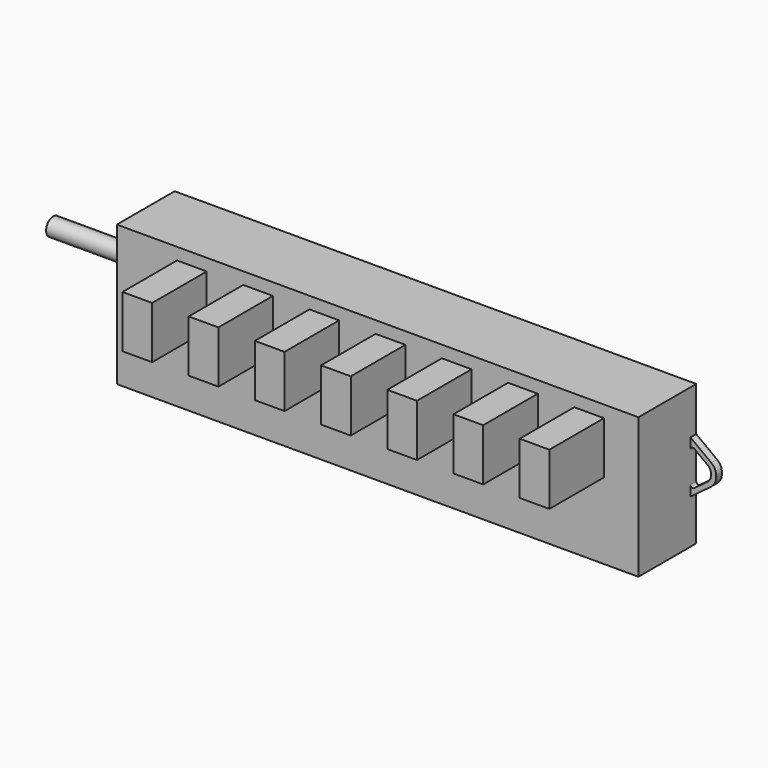
from build123d import *

# Parameters (mm, degrees)
F0_W      = 165.1
F0_H      = 44.45
F1_DEPTH  = 22.86
F2_R      = 5.08
F3_DEPTH  = 5.334
F4_R      = 2.794
F5_DEPTH  = 25.4
F6_W      = 9.398
F6_H      = 16.51
F7_DEPTH  = 21.59
F8_W      = 2.286
F8_H      = 16.51
F9_DEPTH  = 8.128
F11_DEPTH = 25.4
F12_R     = 1.27
F13_DEPTH = 6.35


with BuildPart() as f1:
    # F0 (on Front) → F1 (new body)
    with BuildSketch(Plane.XZ):
        with Locations((22.303157, 29.753123)):
            Rectangle(F0_W, F0_H)
    extrude(amount=F1_DEPTH)

    # F2 (on face) → F3 (join)
    with BuildSketch(Plane(origin=(-60.246843, 0, 0), x_dir=(0, -1, 0), z_dir=(-1, 0, 0))):
        with Locations((9.652, 36.103123)):
            Circle(F2_R)
    extrude(amount=F3_DEPTH)

    # F4 (on face) → F5 (join)
    with BuildSketch(Plane(origin=(-65.580843, 0, 0), x_dir=(0, -1, 0), z_dir=(-1, 0, 0))):
        with Locations((9.652, 36.103123)):
            Circle(F4_R)
    extrude(amount=F5_DEPTH)

    # F6 (on face) → F7 (join)
    with BuildSketch(Plane.XZ.offset(22.86)):
        with Locations((-36.497843, 39.913123)):
            Rectangle(F6_W, F6_H)
        with Locations((-15.542843, 39.913123)):
            Rectangle(F6_W, F6_H)
        with Locations((5.412157, 39.913123)):
            Rectangle(F6_W, F6_H)
        with Locations((26.367157, 39.913123)):
            Rectangle(F6_W, F6_H)
        with Locations((47.322157, 39.913123)):
            Rectangle(F6_W, F6_H)
        with Locations((68.277157, 39.913123)):
            Rectangle(F6_W, F6_H)
        with Locations((89.232157, 39.913123)):
            Rectangle(F6_W, F6_H)
    extrude(amount=F7_DEPTH)

    # F8 (on face) → F9 (join)
    with BuildSketch(Plane.YZ.offset(104.853157)):
        with Locations((-1.143, 29.753123)):
            Rectangle(F8_W, F8_H)
    extrude(amount=F9_DEPTH)

    # F10 (on face) → F11 (cut)
    with BuildSketch(Plane.XZ.offset(2.286)):
        with BuildLine():
            Line((112.981157, 38.008123), (104.853157, 38.008123))
            Line((104.853157, 38.008123), (111.457157, 33.055123))
            ThreePointArc((111.457157, 33.055123), (112.578924, 31.711006), (112.981157, 30.007123))
            Line((112.981157, 30.007123), (112.981157, 31.912123))
            Line((112.981157, 31.912123), (112.981157, 38.008123))
        make_face()
        with BuildLine():
            Line((112.981157, 27.594123), (112.981157, 29.499123))
            ThreePointArc((112.981157, 29.499123), (112.578924, 27.795239), (111.457157, 26.451123))
            Line((111.457157, 26.451123), (104.853157, 21.498123))
            Line((104.853157, 21.498123), (112.981157, 21.498123))
            Line((112.981157, 21.498123), (112.981157, 27.594123))
        make_face()
        with BuildLine():
            Line((110.339557, 32.039123), (106.072357, 35.239523))
            ThreePointArc((106.072357, 35.239523), (105.27438, 35.311476), (104.853157, 34.629923))
            Line((104.853157, 34.629923), (104.853157, 29.753123))
            Line((104.853157, 29.753123), (111.355557, 29.753123))
            Line((111.355557, 29.753123), (111.355557, 30.007123))
            ThreePointArc((111.355557, 30.007123), (111.087402, 31.143045), (110.339557, 32.039123))
        make_face()
        with BuildLine():
            Line((111.355557, 29.753123), (104.853157, 29.753123))
            Line((104.853157, 29.753123), (104.853157, 24.876323))
            ThreePointArc((104.853157, 24.876323), (105.27438, 24.194769), (106.072357, 24.266723))
            Line((106.072357, 24.266723), (110.339557, 27.467123))
            ThreePointArc((110.339557, 27.467123), (111.087402, 28.3632), (111.355557, 29.499123))
            Line((111.355557, 29.499123), (111.355557, 29.753123))
        make_face()
    extrude(amount=-F11_DEPTH, mode=Mode.SUBTRACT)

    # F12 (on face) → F13 (cut)
    with BuildSketch(Plane(origin=(0, 0, 0), x_dir=(-1, 0, 0), z_dir=(0, 1, 0))):
        with Locations((47.546843, 29.753123)):
            Circle(F12_R)
    extrude(amount=-F13_DEPTH, mode=Mode.SUBTRACT)


solid = f1.part
